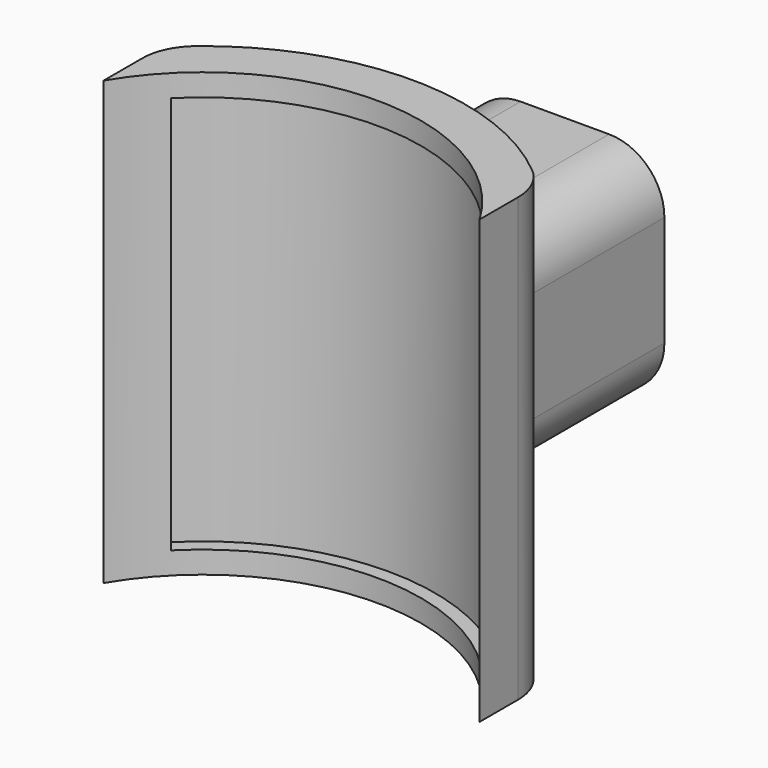
from build123d import *

# Parameters (mm, degrees)
F1_DEPTH      = 40
F3_W          = 18
F3_H          = 20
F4_DEPTH      = 10
F4_DEPTH_BACK = 10
F7_DEPTH      = 36
F8_R          = 1.625
F9_DEPTH      = 15
F10_R         = 5


with BuildPart() as f1:
    # F0 (on Top) → F1 (new body)
    with BuildSketch(Plane.XY):
        with BuildLine():
            ThreePointArc((-17, 0), (0, 9.697015), (17, 0))
            Line((17, 0), (17, 4.354045))
            ThreePointArc((17, 4.354045), (16.527693, 6.475365), (15.2, 8.195919))
            ThreePointArc((15.2, 8.195919), (0, 13.697015), (-15.2, 8.195919))
            ThreePointArc((-15.2, 8.195919), (-16.527693, 6.475365), (-17, 4.354045))
            Line((-17, 4.354045), (-17, 0))
        make_face()
    extrude(amount=F1_DEPTH)

    # F3 (on offset) → F4 (join, two sides)
    with BuildSketch(Plane.XY.offset(20)) as f4_sk:
        with Locations((0, 20.889152)):
            Rectangle(F3_W, F3_H)
    extrude(amount=F4_DEPTH)
    extrude(f4_sk.sketch, amount=-F4_DEPTH_BACK)

    # F6 (on offset) → F7 (cut)
    with BuildSketch(Plane.XY.offset(2)):
        with BuildLine():
            Line((14, 3.877647), (14.886076, 4.759333))
            ThreePointArc((14.886076, 4.759333), (0, 10.947015), (-14.886076, 4.759333))
            Line((-14.886076, 4.759333), (-14, 3.877647))
            ThreePointArc((-14, 3.877647), (0, 9.697015), (14, 3.877647))
        make_face()
    extrude(amount=F7_DEPTH, mode=Mode.SUBTRACT)

    # F8 (on face) → F9 (cut)
    with BuildSketch(Plane(origin=(0, 30.889152, 0), x_dir=(-1, 0, 0), z_dir=(0, 1, 0))):
        with Locations((0, 20)):
            Circle(F8_R)
    extrude(amount=-F9_DEPTH, mode=Mode.SUBTRACT)

    # F10
    f10_edges = [f1.edges().sort_by_distance(p)[0] for p in [
        (9, 21.407425, 30),
        (-9, 21.407425, 30),
        (-9, 21.407425, 10),
        (9, 21.407425, 10),
    ]]
    fillet(f10_edges, radius=F10_R)


solid = f1.part
